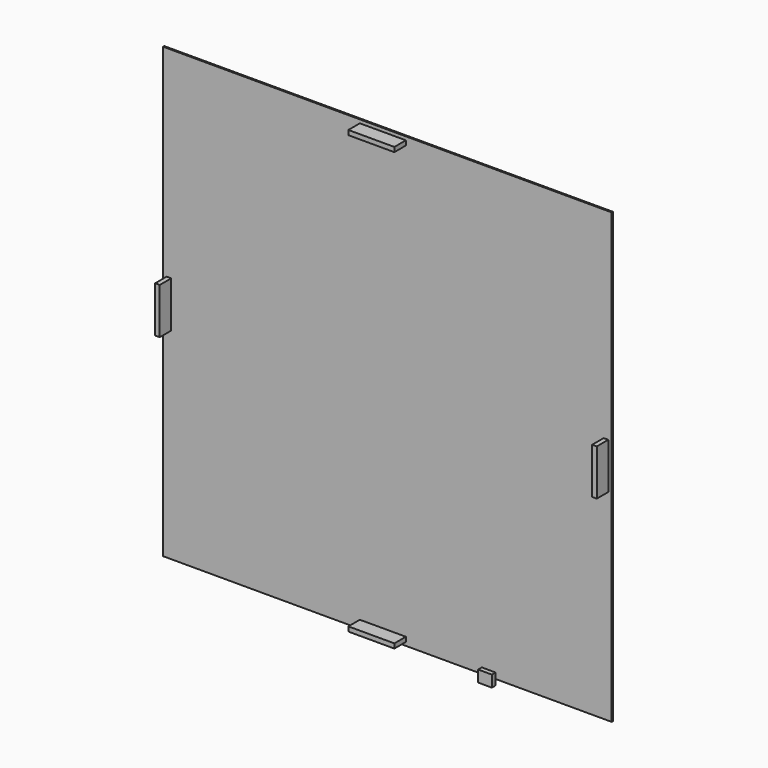
from build123d import *

# Parameters (mm, degrees)
SKETCH_W     = 495.3
SKETCH_H     = 495.3
PAD_DEPTH    = 1.5875
BOX_W        = 5.08
BOX_H        = 50.8
BOX_DEPTH    = 15.875
BOX001_W     = 5.08
BOX001_H     = 50.8
BOX001_DEPTH = 15.875
BOX002_W     = 50.8
BOX002_H     = 5.08
BOX002_DEPTH = 15.875
BOX003_W     = 50.8
BOX003_H     = 5.08
BOX003_DEPTH = 15.875
BOX004_W     = 15.24
BOX004_H     = 12.7
BOX004_DEPTH = 5.08


with BuildPart() as part:
    # Sketch → Pad (new body)
    with BuildSketch(Plane.XZ):
        with Locations((247.65, 247.65)):
            Rectangle(SKETCH_W, SKETCH_H)
    extrude(amount=PAD_DEPTH)

    # Box → Box (join)
    with BuildSketch(Plane(origin=(3.81, -1.5875, 222.25), x_dir=(1, 0, 0), z_dir=(0, -1, 0))):
        with Locations((2.54, 25.4)):
            Rectangle(BOX_W, BOX_H)
    extrude(amount=BOX_DEPTH)

    # Box001 → Box001 (join)
    with BuildSketch(Plane(origin=(486.41, -1.5875, 222.25), x_dir=(1, 0, 0), z_dir=(0, -1, 0))):
        with Locations((2.54, 25.4)):
            Rectangle(BOX001_W, BOX001_H)
    extrude(amount=BOX001_DEPTH)

    # Box002 → Box002 (join)
    with BuildSketch(Plane(origin=(217.17, -1.5875, 3.81), x_dir=(1, 0, 0), z_dir=(0, -1, 0))):
        with Locations((25.4, 2.54)):
            Rectangle(BOX002_W, BOX002_H)
    extrude(amount=BOX002_DEPTH)

    # Box003 → Box003 (join)
    with BuildSketch(Plane(origin=(217.17, -1.5875, 486.41), x_dir=(1, 0, 0), z_dir=(0, -1, 0))):
        with Locations((25.4, 2.54)):
            Rectangle(BOX003_W, BOX003_H)
    extrude(amount=BOX003_DEPTH)

    # Box004 → Box004 (join)
    with BuildSketch(Plane(origin=(351.79, -1.5875, -6.35), x_dir=(1, 0, 0), z_dir=(0, -1, 0))):
        with Locations((7.62, 6.35)):
            Rectangle(BOX004_W, BOX004_H)
    extrude(amount=BOX004_DEPTH)


solid = part.part
